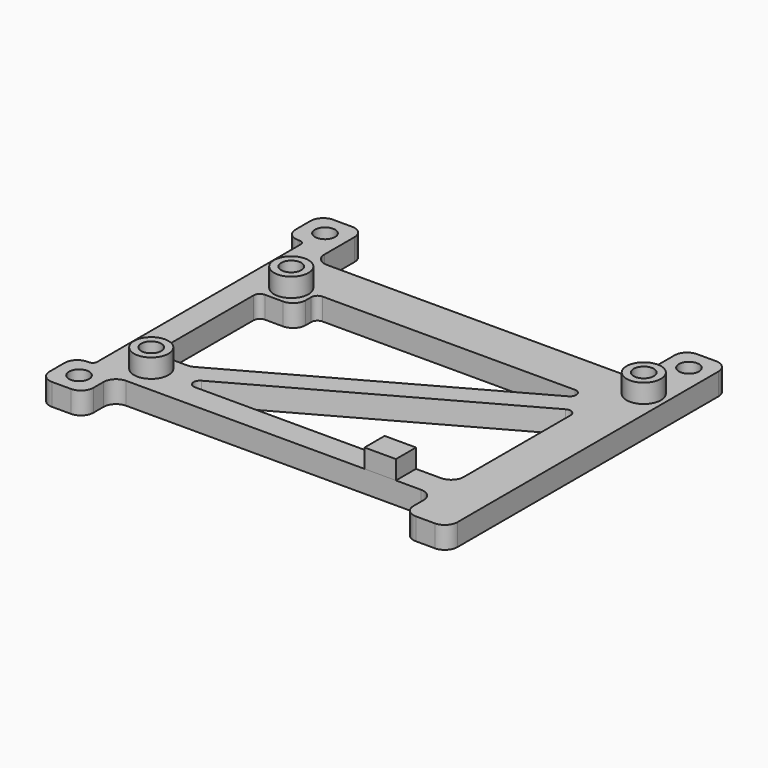
from build123d import *

# Parameters (mm, degrees)
SKETCH_R         = 1.6
EXTRUDE_DEPTH    = 3.5
FILLET_1_R       = 2
FILLET_2_R       = 1
FILLET_3_R       = 0.75
SKETCH001_R      = 2.75
SKETCH001_R_2    = 1.6
SKETCH001_W      = 5
SKETCH001_H      = 4
EXTRUDE001_DEPTH = 3


with BuildPart() as fillet_body:
    # Sketch → Extrude (new body)
    with BuildSketch(Plane.XY):
        Polygon((0, 0), (7, 0), (7, 6), (58, 6), (58, 0), (65, 0), (65, 56), (58, 56), (58, 46), (7, 46), (7, 56), (0, 56), (0, 49), (3, 49), (3, 7), (0, 7), align=None)
        with Locations((3.5, 3.5)):
            Circle(SKETCH_R, mode=Mode.SUBTRACT)
        with Locations((3.5, 52.5)):
            Circle(SKETCH_R, mode=Mode.SUBTRACT)
        with Locations((61.5, 52.5)):
            Circle(SKETCH_R, mode=Mode.SUBTRACT)
        with Locations((61.5, 43.5)):
            Circle(SKETCH_R, mode=Mode.SUBTRACT)
        with Locations((9.4, 38.4)):
            Circle(SKETCH_R, mode=Mode.SUBTRACT)
        with Locations((9.4, 10.5)):
            Circle(SKETCH_R, mode=Mode.SUBTRACT)
        Polygon((12.9, 39), (12.9, 34.9), (7, 34.9), (7, 14), (12.9, 14), (58, 39), align=None, mode=Mode.SUBTRACT)
        Polygon((58, 10), (58, 35), (12.9, 10), align=None, mode=Mode.SUBTRACT)
    extrude(amount=EXTRUDE_DEPTH)

    # Fillet 1
    fillet_1_edges = [fillet_body.edges().sort_by_distance(p)[0] for p in [
        (58, 0, 1.75),
        (65, 0, 1.75),
        (65, 56, 1.75),
        (58, 56, 1.75),
        (58, 46, 1.75),
        (7, 46, 1.75),
        (7, 56, 1.75),
        (0, 56, 1.75),
        (0, 49, 1.75),
        (0, 7, 1.75),
        (0, 0, 1.75),
        (7, 0, 1.75),
        (7, 6, 1.75),
        (58, 6, 1.75),
        (12.9, 14, 1.75),
        (7, 14, 1.75),
        (12.9, 34.9, 1.75),
        (58, 10, 1.75),
    ]]
    fillet(fillet_1_edges, radius=FILLET_1_R)

    # Fillet 2
    fillet_2_edges = [fillet_body.edges().sort_by_distance(p)[0] for p in [
        (58, 39, 1.75),
        (12.9, 39, 1.75),
        (7, 34.9, 1.75),
        (58, 35, 1.75),
        (12.9, 10, 1.75),
    ]]
    fillet(fillet_2_edges, radius=FILLET_2_R)

    # Fillet 3
    fillet_3_edges = [fillet_body.edges().sort_by_distance(p)[0] for p in [
        (3, 49, 1.75),
        (3, 7, 1.75),
    ]]
    fillet(fillet_3_edges, radius=FILLET_3_R)


with BuildPart() as extrude001:
    # Sketch001 (on Face5 of Fillet) → Extrude001 (new body)
    with BuildSketch(Plane.XY.offset(3.5)):
        with Locations((9.4, 38.4)):
            Circle(SKETCH001_R)
        with Locations((9.4, 38.4)):
            Circle(SKETCH001_R_2, mode=Mode.SUBTRACT)
        with Locations((61.5, 43.5)):
            Circle(SKETCH001_R)
        with Locations((61.5, 43.5)):
            Circle(SKETCH001_R_2, mode=Mode.SUBTRACT)
        with Locations((9.4, 10.5)):
            Circle(SKETCH001_R)
        with Locations((9.4, 10.5)):
            Circle(SKETCH001_R_2, mode=Mode.SUBTRACT)
        with Locations((49.5, 8)):
            Rectangle(SKETCH001_W, SKETCH001_H)
    extrude(amount=EXTRUDE001_DEPTH)


solid = Compound([fillet_body.part, extrude001.part])
